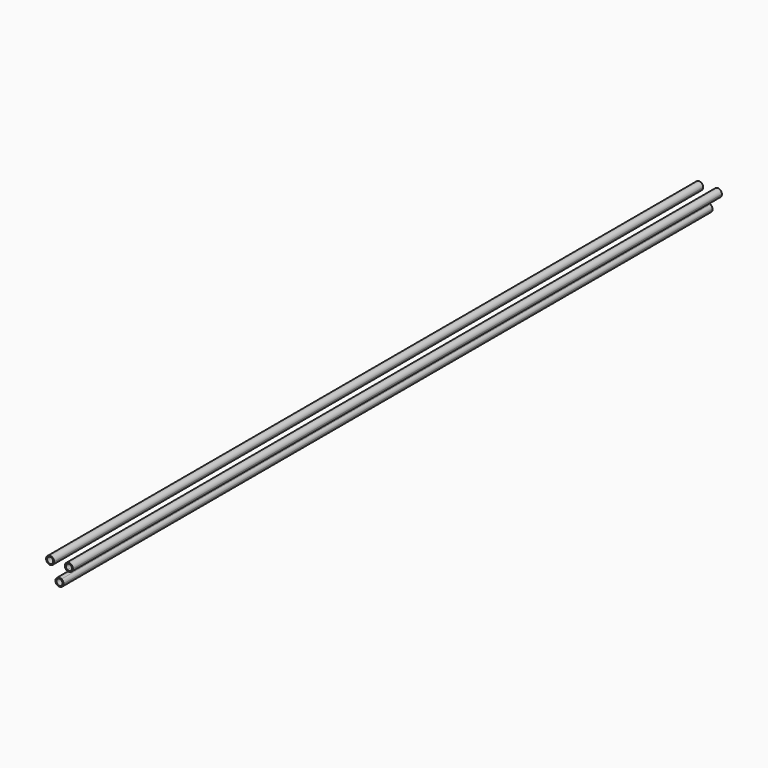
from build123d import *

# Parameters (mm, degrees)
F1_DEPTH = 2000


with BuildPart() as f1:
    # F0 (on Front) → F1 (new body)
    with BuildSketch(Plane.XZ):
        with BuildLine():
            Line((-19.344011, 33.504809), (-18.094011, 31.339746))
            ThreePointArc((-18.094011, 31.339746), (-14.433757, 35), (-13.094011, 40))
            Line((-13.094011, 40), (-15.594011, 40))
            ThreePointArc((-15.594011, 40), (-16.59882, 36.25), (-19.344011, 33.504809))
        make_face()
        with BuildLine():
            ThreePointArc((-13.094011, 40), (-31.754265, 45), (-18.094011, 31.339746))
            Line((-18.094011, 31.339746), (-19.344011, 33.504809))
            ThreePointArc((-19.344011, 33.504809), (-29.589201, 43.75), (-15.594011, 40))
            Line((-15.594011, 40), (-13.094011, 40))
        make_face()
        with BuildLine():
            ThreePointArc((13.094011, 40), (14.433757, 35), (18.094011, 31.339746))
            Line((18.094011, 31.339746), (19.344011, 33.504809))
            ThreePointArc((19.344011, 33.504809), (16.59882, 36.25), (15.594011, 40))
            Line((15.594011, 40), (13.094011, 40))
        make_face()
        with BuildLine():
            Line((19.344011, 33.504809), (18.094011, 31.339746))
            ThreePointArc((18.094011, 31.339746), (28.094011, 31.339746), (33.094011, 40))
            ThreePointArc((33.094011, 40), (23.094011, 50), (13.094011, 40))
            Line((13.094011, 40), (15.594011, 40))
            ThreePointArc((15.594011, 40), (23.094011, 47.5), (30.594011, 40))
            ThreePointArc((30.594011, 40), (26.844011, 33.504809), (19.344011, 33.504809))
        make_face()
        with BuildLine():
            ThreePointArc((-5, 8.660254), (-5, -8.660254), (10, 0))
            ThreePointArc((10, 0), (8.660254, 5), (5, 8.660254))
            Line((5, 8.660254), (3.75, 6.495191))
            ThreePointArc((3.75, 6.495191), (6.495191, 3.75), (7.5, 0))
            ThreePointArc((7.5, 0), (-3.75, -6.495191), (-3.75, 6.495191))
            Line((-3.75, 6.495191), (-5, 8.660254))
        make_face()
        with BuildLine():
            Line((3.75, 6.495191), (5, 8.660254))
            ThreePointArc((5, 8.660254), (0, 10), (-5, 8.660254))
            Line((-5, 8.660254), (-3.75, 6.495191))
            ThreePointArc((-3.75, 6.495191), (0, 7.5), (3.75, 6.495191))
        make_face()
    extrude(amount=F1_DEPTH)


solid = f1.part
